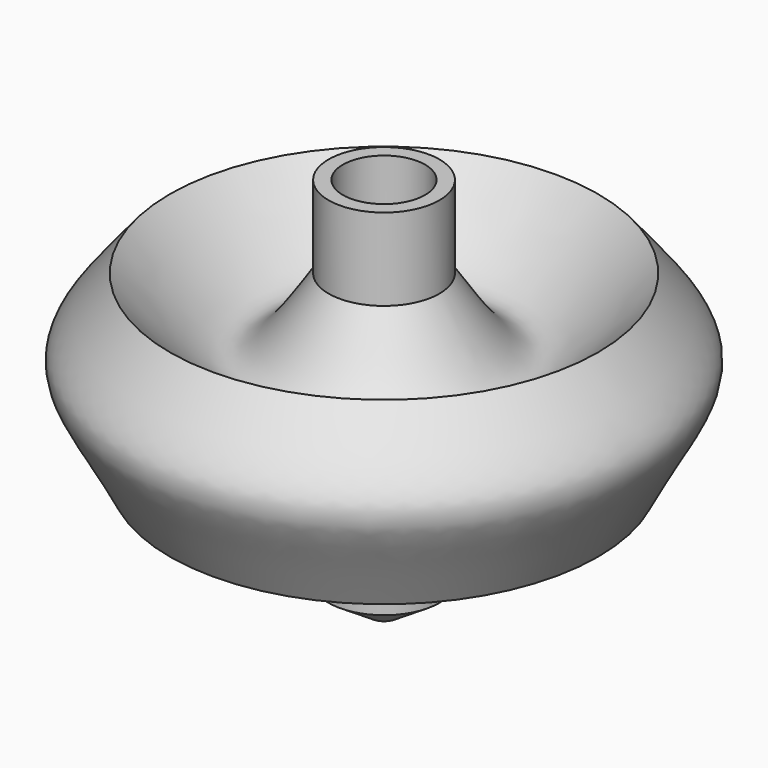
from build123d import *


with BuildPart() as f1:
    # F0 (on Front) → F1 (revolve)
    with BuildSketch(Plane.XZ):
        with BuildLine():
            Line((0, 34.687297), (0, 22.225))
            Line((0, 22.225), (1.5875, 22.225))
            Line((1.5875, 22.225), (1.5875, 0))
            Line((1.5875, 0), (6.420897, 3.139583))
            Line((6.420897, 3.139583), (6.420897, 7.598034))
            add(Edge.make_bspline(
                [(6.420897, 7.598034), (13.834941, 23.358986), (13.834941, 23.358986), (24.819305, 13.834886)],
                knots=[0, 0, 0, 0, 19.426779, 19.426779, 19.426779, 19.426779], degree=3))
            add(Edge.make_bspline(
                [(24.819305, 34.687297), (33.322195, 24.245456), (31.75, 27.367456), (24.819305, 13.834886)],
                knots=[0, 0, 0, 0, 20.85241, 20.85241, 20.85241, 20.85241], degree=3))
            add(Edge.make_bspline(
                [(6.420897, 34.687297), (13.834941, 23.358986), (13.834941, 23.358986), (24.819305, 34.687297)],
                knots=[0, 0, 0, 0, 18.398408, 18.398408, 18.398408, 18.398408], degree=3))
            Line((6.420897, 34.687297), (6.420897, 44.212297))
            Line((6.420897, 44.212297), (4.7625, 44.212297))
            Line((4.7625, 44.212297), (4.7625, 34.687297))
            Line((4.7625, 34.687297), (0, 34.687297))
        make_face()
    revolve(axis=Axis((0, 0, 17.343648), (0, 0, -1)))


solid = f1.part
